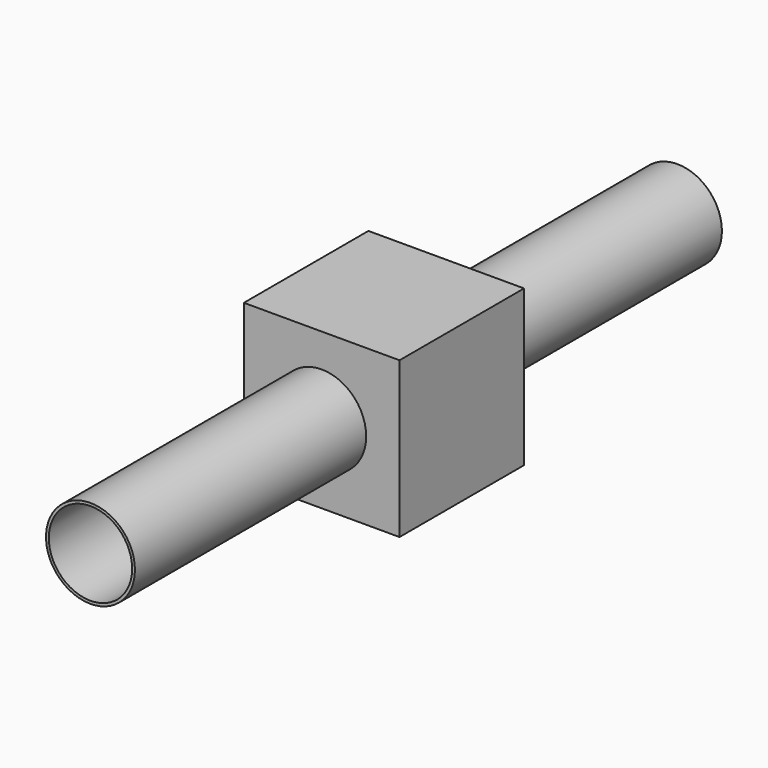
from build123d import *

# Parameters (mm, degrees)
F0_R          = 50.8
F1_DEPTH      = 330.2
F1_DEPTH_BACK = 508
F3_W          = 177.8
F3_H          = 177.8
F4_DEPTH      = 177.8
F6_START      = -1.27
F5_W          = 170.18
F5_H          = 170.18
F6_DEPTH      = 175.006
F2_R          = 47.625
F7_DEPTH      = 914.4


with BuildPart() as f1:
    # F0 (on Front) → F1 (new body, two sides)
    with BuildSketch(Plane.XZ) as f1_sk:
        Circle(F0_R)
    extrude(amount=F1_DEPTH)
    extrude(f1_sk.sketch, amount=-F1_DEPTH_BACK)

    # F3 (on Front) → F4 (join)
    with BuildSketch(Plane.XZ):
        Rectangle(F3_W, F3_H)
    extrude(amount=-F4_DEPTH)

    # F5 (on face) → F6 (cut)
    with BuildSketch(Plane(origin=(0, 177.8, 0), x_dir=(-1, 0, 0), z_dir=(0, 1, 0)).offset(F6_START)):
        Rectangle(F5_W, F5_H)
    extrude(amount=-F6_DEPTH, mode=Mode.SUBTRACT)

    # F2 (on face) → F7 (cut)
    with BuildSketch(Plane.XZ.offset(330.2)):
        Circle(F2_R)
    extrude(amount=-F7_DEPTH, mode=Mode.SUBTRACT)


solid = f1.part
